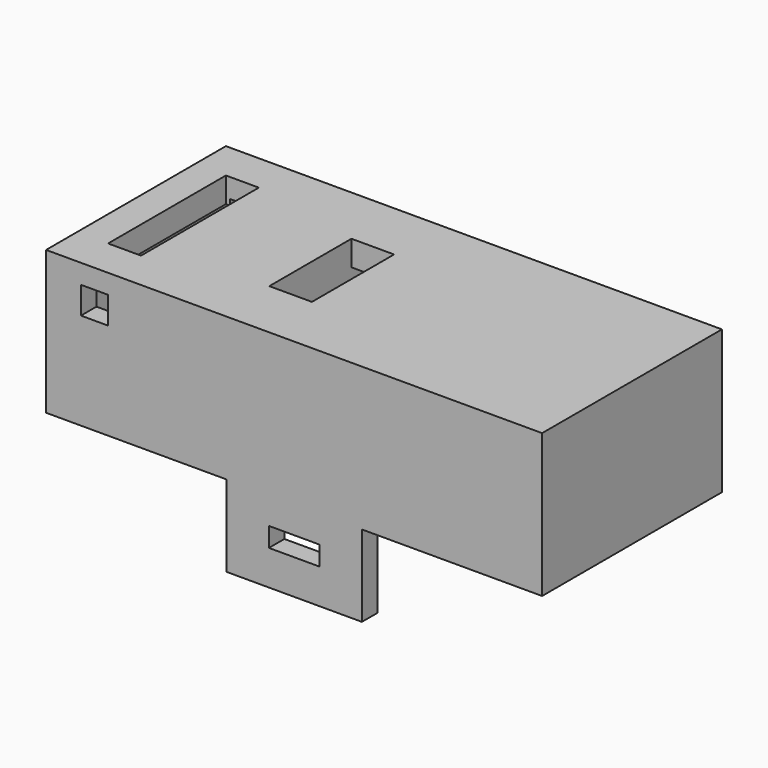
from build123d import *

# Parameters (mm, degrees)
SKETCH046_W     = 1.3
SKETCH046_H     = 0.5
PAD033_DEPTH    = 2.9
SKETCH053_W     = 11.8
SKETCH053_H     = 4.8
POCKET021_DEPTH = 5.15
SKETCH054_W     = 1.1
SKETCH054_H     = 2.65
POCKET022_DEPTH = 0.65
SKETCH055_W     = 0.7
SKETCH055_H     = 4.8
PAD038_DEPTH    = 0.8
SKETCH056_W     = 0.85
SKETCH056_H     = 3.8
POCKET023_DEPTH = 0.65
SKETCH057_W     = 0.7
SKETCH057_H     = 0.7
POCKET024_DEPTH = 5.801


with BuildPart() as part:
    # Sketch046 → Pad033 (new body, symmetric)
    with BuildSketch(Plane.XZ):
        Polygon((6.4, 1.35), (6.4, 5.05), (-6.4, 5.05), (-6.4, 1.35), (-1.75, 1.35), (-1.75, -0.75), (1.75, -0.75), (1.75, 1.35), align=None)
        with Locations((0, 0.4)):
            Rectangle(SKETCH046_W, SKETCH046_H, mode=Mode.SUBTRACT)
    extrude(amount=PAD033_DEPTH, both=True)

    # Sketch053 (on Face6 of Pad033) → Pocket021 (cut)
    with BuildSketch(Plane(origin=(0, 0, -0.75), x_dir=(1, 0, 0), z_dir=(0, 0, -1))):
        Rectangle(SKETCH053_W, SKETCH053_H)
    extrude(amount=-POCKET021_DEPTH, mode=Mode.SUBTRACT)

    # Sketch054 (on Face3 of Pocket021) → Pocket022 (cut)
    with BuildSketch(Plane(origin=(0, 0, 5.05), x_dir=(-1, 0, 0), z_dir=(0, 0, 1))):
        with Locations((1.35, 0)):
            Rectangle(SKETCH054_W, SKETCH054_H)
    extrude(amount=-POCKET022_DEPTH, mode=Mode.SUBTRACT)

    # Sketch055 (on Face30 of Pocket022) → Pad038 (join)
    with BuildSketch(Plane(origin=(0, 0, 4.4), x_dir=(1, 0, 0), z_dir=(0, 0, -1))):
        with Locations((-2.25, 0)):
            Rectangle(SKETCH055_W, SKETCH055_H)
        with Locations((-0.45, 0)):
            Rectangle(SKETCH055_W, SKETCH055_H)
    extrude(amount=PAD038_DEPTH)

    # Sketch056 (on Face3 of Pad038) → Pocket023 (cut)
    with BuildSketch(Plane(origin=(0, 0, 5.05), x_dir=(-1, 0, 0), z_dir=(0, 0, 1))):
        with Locations((5.175, 0)):
            Rectangle(SKETCH056_W, SKETCH056_H)
    extrude(amount=-POCKET023_DEPTH, mode=Mode.SUBTRACT)

    # Sketch057 (on Face5 of Pocket023) → Pocket024 (cut, through all)
    with BuildSketch(Plane.XZ.offset(2.9)):
        with Locations((-5.15, 4.2)):
            Rectangle(SKETCH057_W, SKETCH057_H)
    extrude(amount=-POCKET024_DEPTH, mode=Mode.SUBTRACT)


solid = part.part
